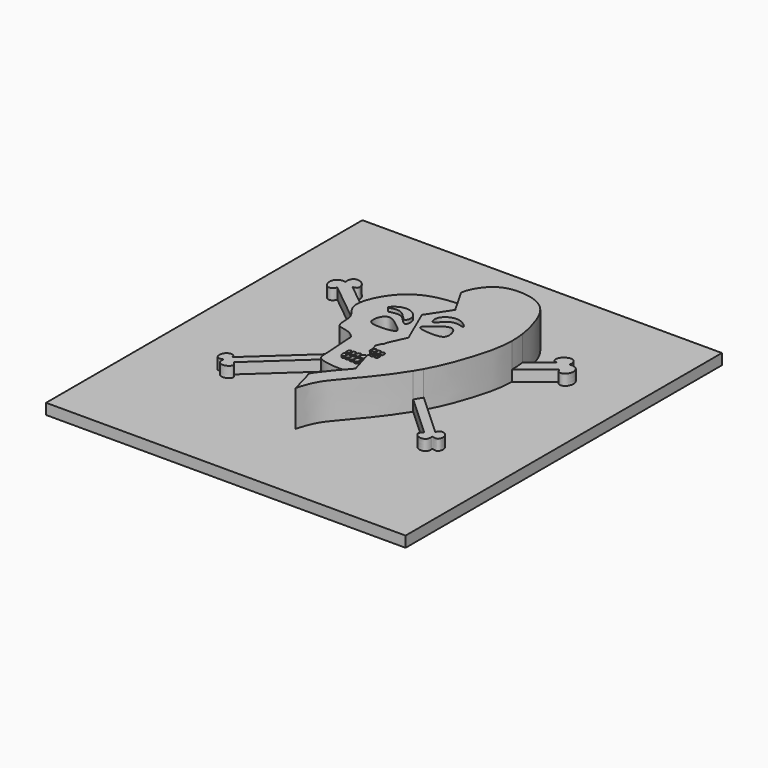
from build123d import *

# Parameters (mm, degrees)
F0_W     = 100
F0_H     = 110
F1_DEPTH = 3
F2_DEPTH = 10
F3_DEPTH = 10.5
F4_DEPTH = 11
F5_DEPTH = 13
F6_DEPTH = 6


with BuildPart() as f1:
    # F0 (on Top) → F1 (new body)
    with BuildSketch(Plane.XY):
        Rectangle(F0_W, F0_H)
        with BuildLine():
            add(Edge.make_bspline(
                [(-17.4049395917, 15.7059809046), (-16.6456279057, 18.1057892858), (-12.3364403939, 25.2542670275), (-4.9157224007, 26.843569846), (0, 26.8339253962)],
                knots=[0.5823706184, 0.5823706184, 0.5823706184, 0.5823706184, 0.7352340214, 1, 1, 1, 1], degree=3))
            add(Edge.make_bspline(
                [(0, 26.8339253962), (0.3451188785, 28.629723479), (1.6678858815, 31.3670397121), (5.7686824583, 35.2836404259), (13.8213364987, 35.0318073497), (18.7942591795, 31.7315461549), (21.1329607155, 26.49028905), (22.2881727584, 21.925106793), (22.5791448371, 19.8805098163)],
                knots=[0, 0, 0, 0, 0.0696103167, 0.1420318723, 0.2291530812, 0.3044296843, 0.3853370874, 0.4454401204, 0.4454401204, 0.4454401204, 0.4454401204], degree=3))
            Line((22.5791448371, 19.8805098163), (28.4415456561, 24.6102722725))
            add(Edge.make_bspline(
                [(28.4415456561, 24.6102722725), (28.0170195473, 24.6784271037), (27.0699045462, 24.820326481), (27.2703837664, 26.7195047348), (28.7691476958, 27.979549132), (30.811445943, 28.0768870931), (31.411882116, 26.0398465075), (30.964818065, 25.456143358), (31.5269549108, 25.6836515147), (33.3455255611, 25.4650292594), (34.3005963868, 23.4075165745), (33.1131144803, 21.037743365), (31.1922592056, 21.3113930215), (31.1673599976, 22.0311389933), (30.8479126549, 22.3408043377)],
                knots=[0, 0, 0, 0, 0.0769137005, 0.1639035372, 0.2628354907, 0.3558862166, 0.4519139085, 0.4993859414, 0.5411025417, 0.6340518812, 0.7352280457, 0.8429036636, 0.9273801178, 1, 1, 1, 1], degree=3))
            Line((30.8479126549, 22.3408043377), (22.8554017567, 15.8924772539))
            add(Edge.make_bspline(
                [(22.8554017567, 15.8924772539), (22.8545175475, 15.7941931239), (22.7949696093, 11.8824422398), (20.7770123161, 4.2104030098), (18.1443890759, -2.6160949431), (16.3353097622, -5.982343939), (16.1339526106, -6.3459505431)],
                knots=[0.4836216186, 0.4836216186, 0.4836216186, 0.4836216186, 0.4864004447, 0.5941503375, 0.6960031156, 0.7083977986, 0.7083977986, 0.7083977986, 0.7083977986], degree=3))
            Line((16.1339526106, -6.3459505431), (28.2539090552, -17.4731092247))
            add(Edge.make_bspline(
                [(28.2539090552, -17.4731092247), (28.2982655495, -17.187783423), (28.3966917127, -16.5546521583), (29.8697156068, -16.2254644097), (31.3454167558, -17.5109874756), (30.9385166508, -19.996879675), (29.4329743784, -19.6082607764), (28.989166716, -19.442589751), (29.0981335714, -19.8801291914), (29.0196530903, -21.3964453119), (27.0046534871, -21.8683883179), (25.1501985467, -20.3351138324), (26.0500116743, -19.4984756412), (26.4751347352, -19.1032000413)],
                knots=[0, 0, 0, 0, 0.0755818747, 0.1677143786, 0.2782295479, 0.3939265245, 0.486293431, 0.534527375, 0.5801441491, 0.675990855, 0.7865060113, 0.899133274, 1, 1, 1, 1], degree=3))
            Line((26.4751347352, -19.1032000413), (14.8918651866, -8.4687659237))
            add(Edge.make_bspline(
                [(14.8918651866, -8.4687659237), (13.7102229983, -10.3877680467), (10.4033339913, -15.1218633063), (4.1848272135, -22.5003944667), (1.2927182959, -25.8091757187), (0, -30.7425167412)],
                knots=[0.7327170119, 0.7327170119, 0.7327170119, 0.7327170119, 0.7991850141, 0.9000459719, 1, 1, 1, 1], degree=3))
            add(Edge.make_bspline(
                [(3.6805966058, -12.8841532611), (4.0293852844, -14.0627590083), (4.4549620224, -15.5098954283), (4.4198309596, -15.3587856769), (-2.4407444649, -23.3729841407), (-1.6852019036, -24.1625678895), (-0.7381263162, -27.8572522948), (0, -30.7425167412)],
                knots=[0.662006362, 0.662006362, 0.662006362, 0.662006362, 0.7008816632, 0.7233070117, 0.8523073848, 0.8928846875, 1, 1, 1, 1], degree=3))
            add(Edge.make_bspline(
                [(-9.0375601535, -3.0940121965), (-8.85633177, -5.9275238661), (-8.5661631503, -9.7382745567), (-8.5712414806, -12.5838812557), (-2.1212309715, -13.2795956109), (2.5269071546, -13.0179929495), (3.6805966175, -12.8841532554)],
                knots=[0.0538072381, 0.0538072381, 0.0538072381, 0.0538072381, 0.2099571681, 0.3087440484, 0.4992401311, 0.570254409, 0.570254409, 0.570254409, 0.570254409], degree=3))
            Line((-9.0375601535, -3.0940121965), (-26.4751347352, -19.1032000413))
            add(Edge.make_bspline(
                [(-28.2539090552, -17.4731092247), (-28.2982655495, -17.187783423), (-28.3966917127, -16.5546521583), (-29.8697156068, -16.2254644097), (-31.3454167558, -17.5109874756), (-30.9385166508, -19.996879675), (-29.4329743784, -19.6082607764), (-28.989166716, -19.442589751), (-29.0981335714, -19.8801291914), (-29.0196530903, -21.3964453119), (-27.0046534871, -21.8683883179), (-25.1501985467, -20.3351138324), (-26.0500116743, -19.4984756412), (-26.4751347352, -19.1032000413)],
                knots=[0, 0, 0, 0, 0.0755818747, 0.1677143786, 0.2782295479, 0.3939265245, 0.486293431, 0.534527375, 0.5801441491, 0.675990855, 0.7865060113, 0.899133274, 1, 1, 1, 1], degree=3))
            Line((-28.2539090552, -17.4731092247), (-9.2217977305, 0))
            add(Edge.make_bspline(
                [(-9.2217977305, 0), (-10.9539601158, 2.4320252797), (-15.8882286963, 1.1444445495), (-14.2948727535, 7.9613518937), (-17.4012808809, 9.9063588306), (-17.7984585399, 11.8125548963)],
                knots=[0, 0, 0, 0, 0.1740543806, 0.3273339335, 0.4902111051, 0.4902111051, 0.4902111051, 0.4902111051], degree=3))
            Line((-17.7984585399, 11.8125548963), (-30.8479126549, 22.3408043377))
            add(Edge.make_bspline(
                [(-28.4415456561, 24.6102722725), (-28.0170195473, 24.6784271037), (-27.0699045462, 24.820326481), (-27.2703837664, 26.7195047348), (-28.7691476958, 27.979549132), (-30.811445943, 28.0768870931), (-31.411882116, 26.0398465075), (-30.964818065, 25.456143358), (-31.5269549108, 25.6836515147), (-33.3455255611, 25.4650292594), (-34.3005963868, 23.4075165745), (-33.1131144803, 21.037743365), (-31.1922592056, 21.3113930215), (-31.1673599976, 22.0311389933), (-30.8479126549, 22.3408043377)],
                knots=[0, 0, 0, 0, 0.0769137005, 0.1639035372, 0.2628354907, 0.3558862166, 0.4519139085, 0.4993859414, 0.5411025417, 0.6340518812, 0.7352280457, 0.8429036636, 0.9273801178, 1, 1, 1, 1], degree=3))
            Line((-28.4415456561, 24.6102722725), (-17.4049395917, 15.7059809046))
        make_face(mode=Mode.SUBTRACT)
    extrude(amount=F1_DEPTH)

    # F0 (on Top) → F2 (join)
    with BuildSketch(Plane.XY):
        with BuildLine():
            add(Edge.make_bspline(
                [(0, -1.3089043787), (0.2951156699, -1.6428088008), (0.3684438003, -2.610745065), (1.3853889486, -2.8443610425), (1.6873509779, -2.7639117053)],
                knots=[0, 0, 0, 0, 0.1760748508, 0.3161601353, 0.3161601353, 0.3161601353, 0.3161601353], degree=3))
            add(Edge.make_bspline(
                [(0, -1.3089043787), (-0.2951156699, -1.6428088008), (-0.3739233446, -2.6830754183), (-2.1296572474, -2.9716611848), (-2.0967644676, -1.2876196467), (-1.1725944031, 2.2977414257), (-0.4772622122, 3.2086866224), (0, 3.5366551019)],
                knots=[0, 0, 0, 0, 0.1760748508, 0.3397856312, 0.5104500215, 0.8036175651, 1, 1, 1, 1], degree=3))
            add(Edge.make_bspline(
                [(2.0714741214, -1.913733681), (2.0628456433, -1.7710716514), (1.9222313465, -0.6105102246), (1.1725944031, 2.2977414257), (0.4772622122, 3.2086866224), (0, 3.5366551019)],
                knots=[0.4644696897, 0.4644696897, 0.4644696897, 0.4644696897, 0.5104500215, 0.8036175651, 1, 1, 1, 1], degree=3))
            add(Edge.make_bspline(
                [(0, 26.8339253962), (1.7527143937, 23.6606802791), (3.9049653644, 19.7633914038), (4.2541404019, 19.6771123783), (-0.1834263513, 13.2006616116), (-0.0336180445, 13.4022870535), (4.2753499434, 2.9749035266), (4.4005940472, 3.2321391362), (2.9568481243, 0.0448819677), (2.0714741288, -1.9137336822)],
                knots=[0, 0, 0, 0, 0.1170841781, 0.1358170753, 0.2473799761, 0.2726683565, 0.407528323, 0.4261821626, 0.500532202, 0.500532202, 0.500532202, 0.500532202], degree=3))
            add(Edge.make_bspline(
                [(-17.4049395917, 15.7059809046), (-16.6456279057, 18.1057892858), (-12.3364403939, 25.2542670275), (-4.9157224007, 26.843569846), (0, 26.8339253962)],
                knots=[0.5823706184, 0.5823706184, 0.5823706184, 0.5823706184, 0.7352340214, 1, 1, 1, 1], degree=3))
            add(Edge.make_bspline(
                [(-17.7984585399, 11.8125548963), (-18.0231904616, 12.8911228753), (-17.8627195055, 14.2591651974), (-17.4049395917, 15.7059809046)],
                knots=[0.4902111051, 0.4902111051, 0.4902111051, 0.4902111051, 0.5823706184, 0.5823706184, 0.5823706184, 0.5823706184], degree=3))
            add(Edge.make_bspline(
                [(-9.2217977305, 0), (-10.9539601158, 2.4320252797), (-15.8882286963, 1.1444445495), (-14.2948727535, 7.9613518937), (-17.4012808809, 9.9063588306), (-17.7984585399, 11.8125548963)],
                knots=[0, 0, 0, 0, 0.1740543806, 0.3273339335, 0.4902111051, 0.4902111051, 0.4902111051, 0.4902111051], degree=3))
            add(Edge.make_bspline(
                [(-9.2217977305, 0), (-9.1628734986, -1.0819295049), (-9.1000091011, -2.1176208705), (-9.0375601535, -3.0940121965)],
                knots=[0, 0, 0, 0, 0.0538072381, 0.0538072381, 0.0538072381, 0.0538072381], degree=3))
            add(Edge.make_bspline(
                [(-9.0375601535, -3.0940121965), (-8.85633177, -5.9275238661), (-8.5661631503, -9.7382745567), (-8.5712414806, -12.5838812557), (-2.1212309715, -13.2795956109), (2.5269071546, -13.0179929495), (3.6805966175, -12.8841532554)],
                knots=[0.0538072381, 0.0538072381, 0.0538072381, 0.0538072381, 0.2099571681, 0.3087440484, 0.4992401311, 0.570254409, 0.570254409, 0.570254409, 0.570254409], degree=3))
            add(Edge.make_bspline(
                [(2.4838799137, -8.8717274558), (2.8968311182, -10.2415394345), (3.3288379608, -11.6955115823), (3.6805966058, -12.8841532611)],
                knots=[0.6228000341, 0.6228000341, 0.6228000341, 0.6228000341, 0.662006362, 0.662006362, 0.662006362, 0.662006362], degree=3))
            add(Edge.make_bspline(
                [(1.6599469818, -7.5117805973), (1.6514725285, -8.1079141237), (1.4971848583, -8.6271727271), (2.0855108895, -9.0274046641), (2.3940684631, -8.9284408761), (2.4838799137, -8.8717274558)],
                knots=[0, 0, 0, 0, 0.2914507614, 0.5001280543, 0.6114165709, 0.6114165709, 0.6114165709, 0.6114165709], degree=3))
            Line((1.6599469818, -7.5117805973), (2.0714521009, -7.5117805973))
            add(Edge.make_bspline(
                [(1.9033222539, -6.9633238018), (1.9579997068, -7.1409636255), (2.0141493247, -7.3241567957), (2.0714521009, -7.5117805973)],
                knots=[0.6036267408, 0.6036267408, 0.6036267408, 0.6036267408, 0.609411707, 0.609411707, 0.609411707, 0.609411707], degree=3))
            Line((1.9033222539, -6.9633238018), (1.6599469818, -6.9633238018))
            add(Edge.make_bspline(
                [(1.6599469818, -6.9633238018), (1.6540187858, -6.5463061814), (1.6082391806, -6.2729303194), (1.6243671378, -6.0650194124)],
                knots=[0, 0, 0, 0, 0.2038806704, 0.2038806704, 0.2038806704, 0.2038806704], degree=3))
            add(Edge.make_bspline(
                [(1.6873509779, -2.7639117053), (1.3750208089, -3.4556361418), (0.9776722143, -4.338008164), (1.0328993554, -4.2311712951), (1.3636759366, -5.2345225449), (1.6243671378, -6.0650194124)],
                knots=[0.5119396968, 0.5119396968, 0.5119396968, 0.5119396968, 0.5419391289, 0.5620266176, 0.5932191159, 0.5932191159, 0.5932191159, 0.5932191159], degree=3))
        make_face()
        with BuildLine():
            Line((-5.1052100025, -7.5117805973), (-4.1717644781, -7.5117805973))
            add(Edge.make_bspline(
                [(-4.1717644781, -7.5117805973), (-4.1595552172, -8.0277494785), (-4.0116856373, -8.6206426813), (-4.6244130874, -8.849935199), (-5.159664976, -8.5859352837), (-5.1077307664, -8.0035674103), (-5.1052100025, -7.5117805973)],
                knots=[0, 0, 0, 0, 0.3036755177, 0.5025874957, 0.6991759172, 1, 1, 1, 1], degree=3))
        make_face(mode=Mode.SUBTRACT)
        with BuildLine():
            Line((-3.9511318319, -7.5117805973), (-3.0007143505, -7.5117805973))
            add(Edge.make_bspline(
                [(-3.0007143505, -7.5117805973), (-2.959563164, -8.1199146807), (-2.8515730402, -8.6245740887), (-3.4346922518, -8.9285824765), (-4.1034393399, -8.7001444973), (-3.9676330052, -8.0719115213), (-3.9511318319, -7.5117805973)],
                knots=[0, 0, 0, 0, 0.2988170701, 0.4951736982, 0.6962977783, 1, 1, 1, 1], degree=3))
        make_face(mode=Mode.SUBTRACT)
        with BuildLine():
            Line((-2.6782511268, -7.5117805973), (-1.6599469818, -7.5117805973))
            add(Edge.make_bspline(
                [(-1.6599469818, -7.5117805973), (-1.6514725285, -8.1079141237), (-1.4971848583, -8.6271727271), (-2.1731362802, -9.0870152848), (-2.8568482367, -8.6734879094), (-2.6955448557, -8.1799188629), (-2.6782511268, -7.5117805973)],
                knots=[0, 0, 0, 0, 0.2914507614, 0.5001280543, 0.702481071, 1, 1, 1, 1], degree=3))
        make_face(mode=Mode.SUBTRACT)
        with BuildLine():
            Line((-1.4223427279, -7.5117805973), (-0.1834057475, -7.5117805973))
            add(Edge.make_bspline(
                [(-0.1834057475, -7.5117805973), (-0.1750794746, -8.129486233), (-0.0511412941, -8.8512251874), (-0.7380772264, -9.1527145223), (-1.5543919195, -8.9026180319), (-1.435423628, -8.1422838148), (-1.4223427279, -7.5117805973)],
                knots=[0, 0, 0, 0, 0.2977973461, 0.4926134186, 0.6992727718, 1, 1, 1, 1], degree=3))
        make_face(mode=Mode.SUBTRACT)
        with BuildLine():
            add(Edge.make_bspline(
                [(-4.1717644781, -6.9633238018), (-4.1595552172, -6.4473549206), (-4.0116856373, -5.8544617177), (-4.6244130874, -5.6251692001), (-5.159664976, -5.8891691154), (-5.1077307664, -6.4715369887), (-5.1052100025, -6.9633238018)],
                knots=[0, 0, 0, 0, 0.3036755177, 0.5025874957, 0.6991759172, 1, 1, 1, 1], degree=3))
            Line((-4.1717644781, -6.9633238018), (-5.1052100025, -6.9633238018))
        make_face(mode=Mode.SUBTRACT)
        with BuildLine():
            add(Edge.make_bspline(
                [(-3.0007143505, -6.9633238018), (-2.959563164, -6.3551897183), (-2.8515730402, -5.8505303104), (-3.4346922518, -5.5465219225), (-4.1034393399, -5.7749599018), (-3.9676330052, -6.4031928778), (-3.9511318319, -6.9633238018)],
                knots=[0, 0, 0, 0, 0.2988170701, 0.4951736982, 0.6962977783, 1, 1, 1, 1], degree=3))
            Line((-3.0007143505, -6.9633238018), (-3.9511318319, -6.9633238018))
        make_face(mode=Mode.SUBTRACT)
        with BuildLine():
            add(Edge.make_bspline(
                [(-1.6599469818, -6.9633238018), (-1.6514725285, -6.3671902753), (-1.4971848583, -5.847931672), (-2.1731362802, -5.3880891142), (-2.8568482367, -5.8016164897), (-2.6955448557, -6.2951855361), (-2.6782511268, -6.9633238018)],
                knots=[0, 0, 0, 0, 0.2914507614, 0.5001280543, 0.702481071, 1, 1, 1, 1], degree=3))
            Line((-1.6599469818, -6.9633238018), (-2.6782511268, -6.9633238018))
        make_face(mode=Mode.SUBTRACT)
        with BuildLine():
            add(Edge.make_bspline(
                [(-0.1834057475, -6.9633238018), (-0.1750794746, -6.345618166), (-0.0511412941, -5.6238792116), (-0.7380772264, -5.3223898767), (-1.5543919195, -5.5724863671), (-1.435423628, -6.3328205842), (-1.4223427279, -6.9633238018)],
                knots=[0, 0, 0, 0, 0.2977973461, 0.4926134186, 0.6992727718, 1, 1, 1, 1], degree=3))
            Line((-0.1834057475, -6.9633238018), (-1.4223427279, -6.9633238018))
        make_face(mode=Mode.SUBTRACT)
        with BuildLine():
            add(Edge.make_bspline(
                [(0.1834057475, -7.5117805973), (0.1750794746, -8.129486233), (0.0511412941, -8.8512251874), (0.7380772264, -9.1527145223), (1.5543919195, -8.9026180319), (1.435423628, -8.1422838148), (1.4223427279, -7.5117805973)],
                knots=[0, 0, 0, 0, 0.2977973461, 0.4926134186, 0.6992727718, 1, 1, 1, 1], degree=3))
            Line((0.1834057475, -7.5117805973), (1.4223427279, -7.5117805973))
        make_face(mode=Mode.SUBTRACT)
        with BuildLine():
            Line((1.4223427279, -6.9633238018), (0.1834057475, -6.9633238018))
            add(Edge.make_bspline(
                [(0.1834057475, -6.9633238018), (0.1750794746, -6.345618166), (0.0511412941, -5.6238792116), (0.7380772264, -5.3223898767), (1.5543919195, -5.5724863671), (1.435423628, -6.3328205842), (1.4223427279, -6.9633238018)],
                knots=[0, 0, 0, 0, 0.2977973461, 0.4926134186, 0.6992727718, 1, 1, 1, 1], degree=3))
        make_face(mode=Mode.SUBTRACT)
        with BuildLine():
            add(Edge.make_bspline(
                [(-4.7920122743, 10.3204390034), (-6.180522966, 11.4699120229), (-9.5571290216, 14.1690294713), (-11.2228162996, 8.2766719282), (-8.3624638308, 7.40038015), (-1.9170146698, 7.8782138976), (-3.8078722732, 9.5057226419), (-4.7920122743, 10.3204390034)],
                knots=[0, 0, 0, 0, 0.2307473819, 0.4344155948, 0.6038707224, 0.836452301, 1, 1, 1, 1], degree=3))
        make_face(mode=Mode.SUBTRACT)
        with BuildLine():
            add(Edge.make_bspline(
                [(-10.4855457321, 14.4391646609), (-10.3032848023, 14.2126422932), (-6.7808083557, 16.0749718137), (-3.7874028931, 10.4929120043), (-2.7817005997, 15.2173806691), (-7.8159070485, 17.6234453444), (-10.6689352503, 14.6670896908), (-10.4855457321, 14.4391646609)],
                knots=[0, 0, 0, 0, 0.1903780444, 0.4109364808, 0.574444879, 0.8084431048, 1, 1, 1, 1], degree=3))
        make_face(mode=Mode.SUBTRACT)
    extrude(amount=F2_DEPTH)

    # F0 (on Top) → F3, piece 5 (join)
    with BuildSketch(Plane.XY):
        with BuildLine():
            Line((-5.1052100025, -6.9633238018), (-4.1717644781, -6.9633238018))
            add(Edge.make_bspline(
                [(-4.1717644781, -6.9633238018), (-4.1595552172, -6.4473549206), (-4.0116856373, -5.8544617177), (-4.6244130874, -5.6251692001), (-5.159664976, -5.8891691154), (-5.1077307664, -6.4715369887), (-5.1052100025, -6.9633238018)],
                knots=[0, 0, 0, 0, 0.3036755177, 0.5025874957, 0.6991759172, 1, 1, 1, 1], degree=3))
        make_face()
        with BuildLine():
            Line((-3.9511318319, -6.9633238018), (-3.0007143505, -6.9633238018))
            add(Edge.make_bspline(
                [(-3.0007143505, -6.9633238018), (-2.959563164, -6.3551897183), (-2.8515730402, -5.8505303104), (-3.4346922518, -5.5465219225), (-4.1034393399, -5.7749599018), (-3.9676330052, -6.4031928778), (-3.9511318319, -6.9633238018)],
                knots=[0, 0, 0, 0, 0.2988170701, 0.4951736982, 0.6962977783, 1, 1, 1, 1], degree=3))
        make_face()
        with BuildLine():
            Line((-2.6782511268, -6.9633238018), (-1.6599469818, -6.9633238018))
            add(Edge.make_bspline(
                [(-1.6599469818, -6.9633238018), (-1.6514725285, -6.3671902753), (-1.4971848583, -5.847931672), (-2.1731362802, -5.3880891142), (-2.8568482367, -5.8016164897), (-2.6955448557, -6.2951855361), (-2.6782511268, -6.9633238018)],
                knots=[0, 0, 0, 0, 0.2914507614, 0.5001280543, 0.702481071, 1, 1, 1, 1], degree=3))
        make_face()
        with BuildLine():
            Line((-1.4223427279, -6.9633238018), (-0.1834057475, -6.9633238018))
            add(Edge.make_bspline(
                [(-0.1834057475, -6.9633238018), (-0.1750794746, -6.345618166), (-0.0511412941, -5.6238792116), (-0.7380772264, -5.3223898767), (-1.5543919195, -5.5724863671), (-1.435423628, -6.3328205842), (-1.4223427279, -6.9633238018)],
                knots=[0, 0, 0, 0, 0.2977973461, 0.4926134186, 0.6992727718, 1, 1, 1, 1], degree=3))
        make_face()
        with BuildLine():
            add(Edge.make_bspline(
                [(0.1834057475, -6.9633238018), (0.1750794746, -6.345618166), (0.0511412941, -5.6238792116), (0.7380772264, -5.3223898767), (1.5543919195, -5.5724863671), (1.435423628, -6.3328205842), (1.4223427279, -6.9633238018)],
                knots=[0, 0, 0, 0, 0.2977973461, 0.4926134186, 0.6992727718, 1, 1, 1, 1], degree=3))
            Line((0.1834057475, -6.9633238018), (1.4223427279, -6.9633238018))
        make_face()
        with BuildLine():
            add(Edge.make_bspline(
                [(1.6243671378, -6.0650194124), (1.7113488285, -6.3421212911), (1.8049530675, -6.6437353056), (1.9033222539, -6.9633238018)],
                knots=[0.5932191159, 0.5932191159, 0.5932191159, 0.5932191159, 0.6036267408, 0.6036267408, 0.6036267408, 0.6036267408], degree=3))
            add(Edge.make_bspline(
                [(1.6599469818, -6.9633238018), (1.6540187858, -6.5463061814), (1.6082391806, -6.2729303194), (1.6243671378, -6.0650194124)],
                knots=[0, 0, 0, 0, 0.2038806704, 0.2038806704, 0.2038806704, 0.2038806704], degree=3))
            Line((1.6599469818, -6.9633238018), (1.9033222539, -6.9633238018))
        make_face()
        with BuildLine():
            add(Edge.make_bspline(
                [(1.6243671378, -6.0650194124), (1.6312943598, -5.9757182685), (1.6933658441, -5.7144718354), (2.1731362802, -5.3880891142), (2.8568482367, -5.8016164897), (2.6955448557, -6.2951855361), (2.6782511268, -6.9633238018)],
                knots=[0.2038806704, 0.2038806704, 0.2038806704, 0.2038806704, 0.2914507614, 0.5001280543, 0.702481071, 1, 1, 1, 1], degree=3))
            add(Edge.make_bspline(
                [(1.6243671378, -6.0650194124), (1.7113488285, -6.3421212911), (1.8049530675, -6.6437353056), (1.9033222539, -6.9633238018)],
                knots=[0.5932191159, 0.5932191159, 0.5932191159, 0.5932191159, 0.6036267408, 0.6036267408, 0.6036267408, 0.6036267408], degree=3))
            Line((1.9033222539, -6.9633238018), (2.6782511268, -6.9633238018))
        make_face()
        with BuildLine():
            add(Edge.make_bspline(
                [(2.0714521009, -7.5117805973), (2.204069696, -7.9460041903), (2.3428637543, -8.4039588136), (2.4838799137, -8.8717274558)],
                knots=[0.609411707, 0.609411707, 0.609411707, 0.609411707, 0.6228000341, 0.6228000341, 0.6228000341, 0.6228000341], degree=3))
            Line((2.0714521009, -7.5117805973), (1.6599469818, -7.5117805973))
            add(Edge.make_bspline(
                [(1.6599469818, -7.5117805973), (1.6514725285, -8.1079141237), (1.4971848583, -8.6271727271), (2.0855108895, -9.0274046641), (2.3940684631, -8.9284408761), (2.4838799137, -8.8717274558)],
                knots=[0, 0, 0, 0, 0.2914507614, 0.5001280543, 0.6114165709, 0.6114165709, 0.6114165709, 0.6114165709], degree=3))
        make_face()
        with BuildLine():
            Line((2.6782511268, -7.5117805973), (2.0714521009, -7.5117805973))
            add(Edge.make_bspline(
                [(2.0714521009, -7.5117805973), (2.204069696, -7.9460041903), (2.3428637543, -8.4039588136), (2.4838799137, -8.8717274558)],
                knots=[0.609411707, 0.609411707, 0.609411707, 0.609411707, 0.6228000341, 0.6228000341, 0.6228000341, 0.6228000341], degree=3))
            add(Edge.make_bspline(
                [(2.4838799137, -8.8717274558), (2.5573702889, -8.8253203384), (2.8209366115, -8.5636026328), (2.6955448557, -8.1799188629), (2.6782511268, -7.5117805973)],
                knots=[0.6114165709, 0.6114165709, 0.6114165709, 0.6114165709, 0.702481071, 1, 1, 1, 1], degree=3))
        make_face()
        with BuildLine():
            Line((1.4223427279, -7.5117805973), (0.1834057475, -7.5117805973))
            add(Edge.make_bspline(
                [(0.1834057475, -7.5117805973), (0.1750794746, -8.129486233), (0.0511412941, -8.8512251874), (0.7380772264, -9.1527145223), (1.5543919195, -8.9026180319), (1.435423628, -8.1422838148), (1.4223427279, -7.5117805973)],
                knots=[0, 0, 0, 0, 0.2977973461, 0.4926134186, 0.6992727718, 1, 1, 1, 1], degree=3))
        make_face()
        with BuildLine():
            add(Edge.make_bspline(
                [(-0.1834057475, -7.5117805973), (-0.1750794746, -8.129486233), (-0.0511412941, -8.8512251874), (-0.7380772264, -9.1527145223), (-1.5543919195, -8.9026180319), (-1.435423628, -8.1422838148), (-1.4223427279, -7.5117805973)],
                knots=[0, 0, 0, 0, 0.2977973461, 0.4926134186, 0.6992727718, 1, 1, 1, 1], degree=3))
            Line((-0.1834057475, -7.5117805973), (-1.4223427279, -7.5117805973))
        make_face()
        with BuildLine():
            add(Edge.make_bspline(
                [(-1.6599469818, -7.5117805973), (-1.6514725285, -8.1079141237), (-1.4971848583, -8.6271727271), (-2.1731362802, -9.0870152848), (-2.8568482367, -8.6734879094), (-2.6955448557, -8.1799188629), (-2.6782511268, -7.5117805973)],
                knots=[0, 0, 0, 0, 0.2914507614, 0.5001280543, 0.702481071, 1, 1, 1, 1], degree=3))
            Line((-1.6599469818, -7.5117805973), (-2.6782511268, -7.5117805973))
        make_face()
        with BuildLine():
            add(Edge.make_bspline(
                [(-3.0007143505, -7.5117805973), (-2.959563164, -8.1199146807), (-2.8515730402, -8.6245740887), (-3.4346922518, -8.9285824765), (-4.1034393399, -8.7001444973), (-3.9676330052, -8.0719115213), (-3.9511318319, -7.5117805973)],
                knots=[0, 0, 0, 0, 0.2988170701, 0.4951736982, 0.6962977783, 1, 1, 1, 1], degree=3))
            Line((-3.0007143505, -7.5117805973), (-3.9511318319, -7.5117805973))
        make_face()
        with BuildLine():
            add(Edge.make_bspline(
                [(-4.1717644781, -7.5117805973), (-4.1595552172, -8.0277494785), (-4.0116856373, -8.6206426813), (-4.6244130874, -8.849935199), (-5.159664976, -8.5859352837), (-5.1077307664, -8.0035674103), (-5.1052100025, -7.5117805973)],
                knots=[0, 0, 0, 0, 0.3036755177, 0.5025874957, 0.6991759172, 1, 1, 1, 1], degree=3))
            Line((-4.1717644781, -7.5117805973), (-5.1052100025, -7.5117805973))
        make_face()
    extrude(amount=F3_DEPTH)

    # F0 (on Top) → F4 (join)
    with BuildSketch(Plane.XY):
        with BuildLine():
            add(Edge.make_bspline(
                [(-10.4855457321, 14.4391646609), (-10.3032848023, 14.2126422932), (-6.7808083557, 16.0749718137), (-3.7874028931, 10.4929120043), (-2.7817005997, 15.2173806691), (-7.8159070485, 17.6234453444), (-10.6689352503, 14.6670896908), (-10.4855457321, 14.4391646609)],
                knots=[0, 0, 0, 0, 0.1903780444, 0.4109364808, 0.574444879, 0.8084431048, 1, 1, 1, 1], degree=3))
        make_face()
    extrude(amount=F4_DEPTH)



with BuildPart() as f3:
    # F0 (on Top) → F3 (new body)
    with BuildSketch(Plane.XY):
        with BuildLine():
            add(Edge.make_bspline(
                [(3.0007143505, -6.9633238018), (2.959563164, -6.3551897183), (2.8515730402, -5.8505303104), (3.4346922518, -5.5465219225), (4.1034393399, -5.7749599018), (3.9676330052, -6.4031928778), (3.9511318319, -6.9633238018)],
                knots=[0, 0, 0, 0, 0.2988170701, 0.4951736982, 0.6962977783, 1, 1, 1, 1], degree=3))
            Line((3.0007143505, -6.9633238018), (3.9511318319, -6.9633238018))
        make_face()
    extrude(amount=F3_DEPTH)


with BuildPart() as f3b:
    # F0 (on Top) → F3, piece 2 (new body)
    with BuildSketch(Plane.XY):
        with BuildLine():
            add(Edge.make_bspline(
                [(4.1717644781, -6.9633238018), (4.1595552172, -6.4473549206), (4.0116856373, -5.8544617177), (4.6244130874, -5.6251692001), (5.159664976, -5.8891691154), (5.1077307664, -6.4715369887), (5.1052100025, -6.9633238018)],
                knots=[0, 0, 0, 0, 0.3036755177, 0.5025874957, 0.6991759172, 1, 1, 1, 1], degree=3))
            Line((4.1717644781, -6.9633238018), (5.1052100025, -6.9633238018))
        make_face()
    extrude(amount=F3_DEPTH)


with BuildPart() as f3c:
    # F0 (on Top) → F3, piece 3 (new body)
    with BuildSketch(Plane.XY):
        with BuildLine():
            Line((5.1052100025, -7.5117805973), (4.1717644781, -7.5117805973))
            add(Edge.make_bspline(
                [(4.1717644781, -7.5117805973), (4.1595552172, -8.0277494785), (4.0116856373, -8.6206426813), (4.6244130874, -8.849935199), (5.159664976, -8.5859352837), (5.1077307664, -8.0035674103), (5.1052100025, -7.5117805973)],
                knots=[0, 0, 0, 0, 0.3036755177, 0.5025874957, 0.6991759172, 1, 1, 1, 1], degree=3))
        make_face()
    extrude(amount=F3_DEPTH)


with BuildPart() as f3d:
    # F0 (on Top) → F3, piece 4 (new body)
    with BuildSketch(Plane.XY):
        with BuildLine():
            Line((3.9511318319, -7.5117805973), (3.0007143505, -7.5117805973))
            add(Edge.make_bspline(
                [(3.0007143505, -7.5117805973), (2.959563164, -8.1199146807), (2.8515730402, -8.6245740887), (3.4346922518, -8.9285824765), (4.1034393399, -8.7001444973), (3.9676330052, -8.0719115213), (3.9511318319, -7.5117805973)],
                knots=[0, 0, 0, 0, 0.2988170701, 0.4951736982, 0.6962977783, 1, 1, 1, 1], degree=3))
        make_face()
    extrude(amount=F3_DEPTH)


with BuildPart() as f4:
    # F0 (on Top) → F4, piece 2 (new body)
    with BuildSketch(Plane.XY):
        with BuildLine():
            add(Edge.make_bspline(
                [(10.4855457321, 14.4391646609), (10.3032848023, 14.2126422932), (6.7808083557, 16.0749718137), (3.7874028931, 10.4929120043), (2.7817005997, 15.2173806691), (7.8159070485, 17.6234453444), (10.6689352503, 14.6670896908), (10.4855457321, 14.4391646609)],
                knots=[0, 0, 0, 0, 0.1903780444, 0.4109364808, 0.574444879, 0.8084431048, 1, 1, 1, 1], degree=3))
        make_face()
    extrude(amount=F4_DEPTH)


with BuildPart() as f1_1:
    add(f1.part)

    add(f3.part)  # F5 merges F3

    add(f3b.part)  # F5 merges F3b

    add(f3c.part)  # F5 merges F3c

    add(f3d.part)  # F5 merges F3d

    add(f4.part)  # F5 merges F4
    # F0 (on Top) → F5 (join)
    with BuildSketch(Plane.XY):
        with BuildLine():
            add(Edge.make_bspline(
                [(0, 26.8339253962), (0.3451188785, 28.629723479), (1.6678858815, 31.3670397121), (5.7686824583, 35.2836404259), (13.8213364987, 35.0318073497), (18.7942591795, 31.7315461549), (21.1329607155, 26.49028905), (22.2881727584, 21.925106793), (22.5791448371, 19.8805098163)],
                knots=[0, 0, 0, 0, 0.0696103167, 0.1420318723, 0.2291530812, 0.3044296843, 0.3853370874, 0.4454401204, 0.4454401204, 0.4454401204, 0.4454401204], degree=3))
            add(Edge.make_bspline(
                [(9.2217977305, 0), (10.9539601158, 2.4320252797), (15.8882286963, 1.1444445495), (14.2948727535, 7.9613518937), (19.8087614744, 11.413748157), (13.9739922259, 24.9035508644), (4.9157224007, 26.843569846), (0, 26.8339253962)],
                knots=[0, 0, 0, 0, 0.1740543806, 0.3273339335, 0.4902111051, 0.7352340214, 1, 1, 1, 1], degree=3))
            add(Edge.make_bspline(
                [(9.1661054191, -3.2120277665), (9.1860295442, -2.239522903), (9.2043872135, -1.1716211898), (9.2217977305, 0)],
                knots=[0.9470768255, 0.9470768255, 0.9470768255, 0.9470768255, 1, 1, 1, 1], degree=3))
            add(Edge.make_bspline(
                [(3.6805966175, -12.8841532554), (5.6589097093, -12.6546488457), (8.7007193913, -11.8953510539), (8.9903642911, -9.3867029785), (9.1082894233, -6.0340506527), (9.1661054191, -3.2120277665)],
                knots=[0.570254409, 0.570254409, 0.570254409, 0.570254409, 0.6920276245, 0.7935039076, 0.9470768255, 0.9470768255, 0.9470768255, 0.9470768255], degree=3))
            add(Edge.make_bspline(
                [(3.6805966058, -12.8841532611), (4.0293852844, -14.0627590083), (4.4549620224, -15.5098954283), (4.4198309596, -15.3587856769), (-2.4407444649, -23.3729841407), (-1.6852019036, -24.1625678895), (-0.7381263162, -27.8572522948), (0, -30.7425167412)],
                knots=[0.662006362, 0.662006362, 0.662006362, 0.662006362, 0.7008816632, 0.7233070117, 0.8523073848, 0.8928846875, 1, 1, 1, 1], degree=3))
            add(Edge.make_bspline(
                [(14.8918651866, -8.4687659237), (13.7102229983, -10.3877680467), (10.4033339913, -15.1218633063), (4.1848272135, -22.5003944667), (1.2927182959, -25.8091757187), (0, -30.7425167412)],
                knots=[0.7327170119, 0.7327170119, 0.7327170119, 0.7327170119, 0.7991850141, 0.9000459719, 1, 1, 1, 1], degree=3))
            add(Edge.make_bspline(
                [(16.1339526106, -6.3459505431), (15.738876149, -7.0593714941), (15.3242026648, -7.7666442944), (14.8918651866, -8.4687659237)],
                knots=[0.7083977986, 0.7083977986, 0.7083977986, 0.7083977986, 0.7327170119, 0.7327170119, 0.7327170119, 0.7327170119], degree=3))
            add(Edge.make_bspline(
                [(22.8554017567, 15.8924772539), (22.8545175475, 15.7941931239), (22.7949696093, 11.8824422398), (20.7770123161, 4.2104030098), (18.1443890759, -2.6160949431), (16.3353097622, -5.982343939), (16.1339526106, -6.3459505431)],
                knots=[0.4836216186, 0.4836216186, 0.4836216186, 0.4836216186, 0.4864004447, 0.5941503375, 0.6960031156, 0.7083977986, 0.7083977986, 0.7083977986, 0.7083977986], degree=3))
            add(Edge.make_bspline(
                [(22.5791448371, 19.8805098163), (22.7639899166, 18.581643986), (22.8675509268, 17.242916324), (22.8554017567, 15.8924772539)],
                knots=[0.4454401204, 0.4454401204, 0.4454401204, 0.4454401204, 0.4836216186, 0.4836216186, 0.4836216186, 0.4836216186], degree=3))
        make_face()
        with BuildLine():
            add(Edge.make_bspline(
                [(1.6873509779, -2.7639117053), (1.7382771172, -2.7503438599), (2.0314289444, -2.6323248496), (2.0948718139, -2.3005878019), (2.0714741214, -1.913733681)],
                knots=[0.3161601353, 0.3161601353, 0.3161601353, 0.3161601353, 0.3397856312, 0.4644696897, 0.4644696897, 0.4644696897, 0.4644696897], degree=3))
            add(Edge.make_bspline(
                [(1.6873509779, -2.7639117053), (1.3750208089, -3.4556361418), (0.9776722143, -4.338008164), (1.0328993554, -4.2311712951), (1.3636759366, -5.2345225449), (1.6243671378, -6.0650194124)],
                knots=[0.5119396968, 0.5119396968, 0.5119396968, 0.5119396968, 0.5419391289, 0.5620266176, 0.5932191159, 0.5932191159, 0.5932191159, 0.5932191159], degree=3))
            add(Edge.make_bspline(
                [(1.6243671378, -6.0650194124), (1.6312943598, -5.9757182685), (1.6933658441, -5.7144718354), (2.1731362802, -5.3880891142), (2.8568482367, -5.8016164897), (2.6955448557, -6.2951855361), (2.6782511268, -6.9633238018)],
                knots=[0.2038806704, 0.2038806704, 0.2038806704, 0.2038806704, 0.2914507614, 0.5001280543, 0.702481071, 1, 1, 1, 1], degree=3))
            Line((2.6782511268, -6.9633238018), (1.9033222539, -6.9633238018))
            add(Edge.make_bspline(
                [(1.9033222539, -6.9633238018), (1.9579997068, -7.1409636255), (2.0141493247, -7.3241567957), (2.0714521009, -7.5117805973)],
                knots=[0.6036267408, 0.6036267408, 0.6036267408, 0.6036267408, 0.609411707, 0.609411707, 0.609411707, 0.609411707], degree=3))
            Line((2.0714521009, -7.5117805973), (2.6782511268, -7.5117805973))
            add(Edge.make_bspline(
                [(2.4838799137, -8.8717274558), (2.5573702889, -8.8253203384), (2.8209366115, -8.5636026328), (2.6955448557, -8.1799188629), (2.6782511268, -7.5117805973)],
                knots=[0.6114165709, 0.6114165709, 0.6114165709, 0.6114165709, 0.702481071, 1, 1, 1, 1], degree=3))
            add(Edge.make_bspline(
                [(2.4838799137, -8.8717274558), (2.8968311182, -10.2415394345), (3.3288379608, -11.6955115823), (3.6805966058, -12.8841532611)],
                knots=[0.6228000341, 0.6228000341, 0.6228000341, 0.6228000341, 0.662006362, 0.662006362, 0.662006362, 0.662006362], degree=3))
            add(Edge.make_bspline(
                [(3.6805966175, -12.8841532554), (5.6589097093, -12.6546488457), (8.7007193913, -11.8953510539), (8.9903642911, -9.3867029785), (9.1082894233, -6.0340506527), (9.1661054191, -3.2120277665)],
                knots=[0.570254409, 0.570254409, 0.570254409, 0.570254409, 0.6920276245, 0.7935039076, 0.9470768255, 0.9470768255, 0.9470768255, 0.9470768255], degree=3))
            add(Edge.make_bspline(
                [(9.1661054191, -3.2120277665), (9.1860295442, -2.239522903), (9.2043872135, -1.1716211898), (9.2217977305, 0)],
                knots=[0.9470768255, 0.9470768255, 0.9470768255, 0.9470768255, 1, 1, 1, 1], degree=3))
            add(Edge.make_bspline(
                [(9.2217977305, 0), (10.9539601158, 2.4320252797), (15.8882286963, 1.1444445495), (14.2948727535, 7.9613518937), (19.8087614744, 11.413748157), (13.9739922259, 24.9035508644), (4.9157224007, 26.843569846), (0, 26.8339253962)],
                knots=[0, 0, 0, 0, 0.1740543806, 0.3273339335, 0.4902111051, 0.7352340214, 1, 1, 1, 1], degree=3))
            add(Edge.make_bspline(
                [(0, 26.8339253962), (1.7527143937, 23.6606802791), (3.9049653644, 19.7633914038), (4.2541404019, 19.6771123783), (-0.1834263513, 13.2006616116), (-0.0336180445, 13.4022870535), (4.2753499434, 2.9749035266), (4.4005940472, 3.2321391362), (2.9568481243, 0.0448819677), (2.0714741288, -1.9137336822)],
                knots=[0, 0, 0, 0, 0.1170841781, 0.1358170753, 0.2473799761, 0.2726683565, 0.407528323, 0.4261821626, 0.500532202, 0.500532202, 0.500532202, 0.500532202], degree=3))
        make_face()
        with BuildLine():
            add(Edge.make_bspline(
                [(3.0007143505, -7.5117805973), (2.959563164, -8.1199146807), (2.8515730402, -8.6245740887), (3.4346922518, -8.9285824765), (4.1034393399, -8.7001444973), (3.9676330052, -8.0719115213), (3.9511318319, -7.5117805973)],
                knots=[0, 0, 0, 0, 0.2988170701, 0.4951736982, 0.6962977783, 1, 1, 1, 1], degree=3))
            Line((3.0007143505, -7.5117805973), (3.9511318319, -7.5117805973))
        make_face(mode=Mode.SUBTRACT)
        with BuildLine():
            add(Edge.make_bspline(
                [(4.1717644781, -7.5117805973), (4.1595552172, -8.0277494785), (4.0116856373, -8.6206426813), (4.6244130874, -8.849935199), (5.159664976, -8.5859352837), (5.1077307664, -8.0035674103), (5.1052100025, -7.5117805973)],
                knots=[0, 0, 0, 0, 0.3036755177, 0.5025874957, 0.6991759172, 1, 1, 1, 1], degree=3))
            Line((4.1717644781, -7.5117805973), (5.1052100025, -7.5117805973))
        make_face(mode=Mode.SUBTRACT)
        with BuildLine():
            Line((3.9511318319, -6.9633238018), (3.0007143505, -6.9633238018))
            add(Edge.make_bspline(
                [(3.0007143505, -6.9633238018), (2.959563164, -6.3551897183), (2.8515730402, -5.8505303104), (3.4346922518, -5.5465219225), (4.1034393399, -5.7749599018), (3.9676330052, -6.4031928778), (3.9511318319, -6.9633238018)],
                knots=[0, 0, 0, 0, 0.2988170701, 0.4951736982, 0.6962977783, 1, 1, 1, 1], degree=3))
        make_face(mode=Mode.SUBTRACT)
        with BuildLine():
            Line((5.1052100025, -6.9633238018), (4.1717644781, -6.9633238018))
            add(Edge.make_bspline(
                [(4.1717644781, -6.9633238018), (4.1595552172, -6.4473549206), (4.0116856373, -5.8544617177), (4.6244130874, -5.6251692001), (5.159664976, -5.8891691154), (5.1077307664, -6.4715369887), (5.1052100025, -6.9633238018)],
                knots=[0, 0, 0, 0, 0.3036755177, 0.5025874957, 0.6991759172, 1, 1, 1, 1], degree=3))
        make_face(mode=Mode.SUBTRACT)
        with BuildLine():
            add(Edge.make_bspline(
                [(4.7920122743, 10.3204390034), (6.180522966, 11.4699120229), (9.5571290216, 14.1690294713), (11.2228162996, 8.2766719282), (8.3624638308, 7.40038015), (1.9170146698, 7.8782138976), (3.8078722732, 9.5057226419), (4.7920122743, 10.3204390034)],
                knots=[0, 0, 0, 0, 0.2307473819, 0.4344155948, 0.6038707224, 0.836452301, 1, 1, 1, 1], degree=3))
        make_face(mode=Mode.SUBTRACT)
        with BuildLine():
            add(Edge.make_bspline(
                [(10.4855457321, 14.4391646609), (10.3032848023, 14.2126422932), (6.7808083557, 16.0749718137), (3.7874028931, 10.4929120043), (2.7817005997, 15.2173806691), (7.8159070485, 17.6234453444), (10.6689352503, 14.6670896908), (10.4855457321, 14.4391646609)],
                knots=[0, 0, 0, 0, 0.1903780444, 0.4109364808, 0.574444879, 0.8084431048, 1, 1, 1, 1], degree=3))
        make_face(mode=Mode.SUBTRACT)
    extrude(amount=F5_DEPTH)

    # F0 (on Top) → F6 (join)
    with BuildSketch(Plane.XY):
        with BuildLine():
            add(Edge.make_bspline(
                [(-17.7984585399, 11.8125548963), (-18.0231904616, 12.8911228753), (-17.8627195055, 14.2591651974), (-17.4049395917, 15.7059809046)],
                knots=[0.4902111051, 0.4902111051, 0.4902111051, 0.4902111051, 0.5823706184, 0.5823706184, 0.5823706184, 0.5823706184], degree=3))
            Line((-17.4049395917, 15.7059809046), (-28.4415456561, 24.6102722725))
            add(Edge.make_bspline(
                [(-28.4415456561, 24.6102722725), (-28.0170195473, 24.6784271037), (-27.0699045462, 24.820326481), (-27.2703837664, 26.7195047348), (-28.7691476958, 27.979549132), (-30.811445943, 28.0768870931), (-31.411882116, 26.0398465075), (-30.964818065, 25.456143358), (-31.5269549108, 25.6836515147), (-33.3455255611, 25.4650292594), (-34.3005963868, 23.4075165745), (-33.1131144803, 21.037743365), (-31.1922592056, 21.3113930215), (-31.1673599976, 22.0311389933), (-30.8479126549, 22.3408043377)],
                knots=[0, 0, 0, 0, 0.0769137005, 0.1639035372, 0.2628354907, 0.3558862166, 0.4519139085, 0.4993859414, 0.5411025417, 0.6340518812, 0.7352280457, 0.8429036636, 0.9273801178, 1, 1, 1, 1], degree=3))
            Line((-30.8479126549, 22.3408043377), (-17.7984585399, 11.8125548963))
        make_face()
        with BuildLine():
            Line((28.4415456561, 24.6102722725), (22.5791448371, 19.8805098163))
            add(Edge.make_bspline(
                [(22.5791448371, 19.8805098163), (22.7639899166, 18.581643986), (22.8675509268, 17.242916324), (22.8554017567, 15.8924772539)],
                knots=[0.4454401204, 0.4454401204, 0.4454401204, 0.4454401204, 0.4836216186, 0.4836216186, 0.4836216186, 0.4836216186], degree=3))
            Line((22.8554017567, 15.8924772539), (30.8479126549, 22.3408043377))
            add(Edge.make_bspline(
                [(28.4415456561, 24.6102722725), (28.0170195473, 24.6784271037), (27.0699045462, 24.820326481), (27.2703837664, 26.7195047348), (28.7691476958, 27.979549132), (30.811445943, 28.0768870931), (31.411882116, 26.0398465075), (30.964818065, 25.456143358), (31.5269549108, 25.6836515147), (33.3455255611, 25.4650292594), (34.3005963868, 23.4075165745), (33.1131144803, 21.037743365), (31.1922592056, 21.3113930215), (31.1673599976, 22.0311389933), (30.8479126549, 22.3408043377)],
                knots=[0, 0, 0, 0, 0.0769137005, 0.1639035372, 0.2628354907, 0.3558862166, 0.4519139085, 0.4993859414, 0.5411025417, 0.6340518812, 0.7352280457, 0.8429036636, 0.9273801178, 1, 1, 1, 1], degree=3))
        make_face()
        with BuildLine():
            Line((28.2539090552, -17.4731092247), (16.1339526106, -6.3459505431))
            add(Edge.make_bspline(
                [(16.1339526106, -6.3459505431), (15.738876149, -7.0593714941), (15.3242026648, -7.7666442944), (14.8918651866, -8.4687659237)],
                knots=[0.7083977986, 0.7083977986, 0.7083977986, 0.7083977986, 0.7327170119, 0.7327170119, 0.7327170119, 0.7327170119], degree=3))
            Line((14.8918651866, -8.4687659237), (26.4751347352, -19.1032000413))
            add(Edge.make_bspline(
                [(28.2539090552, -17.4731092247), (28.2982655495, -17.187783423), (28.3966917127, -16.5546521583), (29.8697156068, -16.2254644097), (31.3454167558, -17.5109874756), (30.9385166508, -19.996879675), (29.4329743784, -19.6082607764), (28.989166716, -19.442589751), (29.0981335714, -19.8801291914), (29.0196530903, -21.3964453119), (27.0046534871, -21.8683883179), (25.1501985467, -20.3351138324), (26.0500116743, -19.4984756412), (26.4751347352, -19.1032000413)],
                knots=[0, 0, 0, 0, 0.0755818747, 0.1677143786, 0.2782295479, 0.3939265245, 0.486293431, 0.534527375, 0.5801441491, 0.675990855, 0.7865060113, 0.899133274, 1, 1, 1, 1], degree=3))
        make_face()
        with BuildLine():
            add(Edge.make_bspline(
                [(-9.2217977305, 0), (-9.1628734986, -1.0819295049), (-9.1000091011, -2.1176208705), (-9.0375601535, -3.0940121965)],
                knots=[0, 0, 0, 0, 0.0538072381, 0.0538072381, 0.0538072381, 0.0538072381], degree=3))
            Line((-9.2217977305, 0), (-28.2539090552, -17.4731092247))
            add(Edge.make_bspline(
                [(-28.2539090552, -17.4731092247), (-28.2982655495, -17.187783423), (-28.3966917127, -16.5546521583), (-29.8697156068, -16.2254644097), (-31.3454167558, -17.5109874756), (-30.9385166508, -19.996879675), (-29.4329743784, -19.6082607764), (-28.989166716, -19.442589751), (-29.0981335714, -19.8801291914), (-29.0196530903, -21.3964453119), (-27.0046534871, -21.8683883179), (-25.1501985467, -20.3351138324), (-26.0500116743, -19.4984756412), (-26.4751347352, -19.1032000413)],
                knots=[0, 0, 0, 0, 0.0755818747, 0.1677143786, 0.2782295479, 0.3939265245, 0.486293431, 0.534527375, 0.5801441491, 0.675990855, 0.7865060113, 0.899133274, 1, 1, 1, 1], degree=3))
            Line((-26.4751347352, -19.1032000413), (-9.0375601535, -3.0940121965))
        make_face()
    extrude(amount=F6_DEPTH)


solid = f1_1.part
